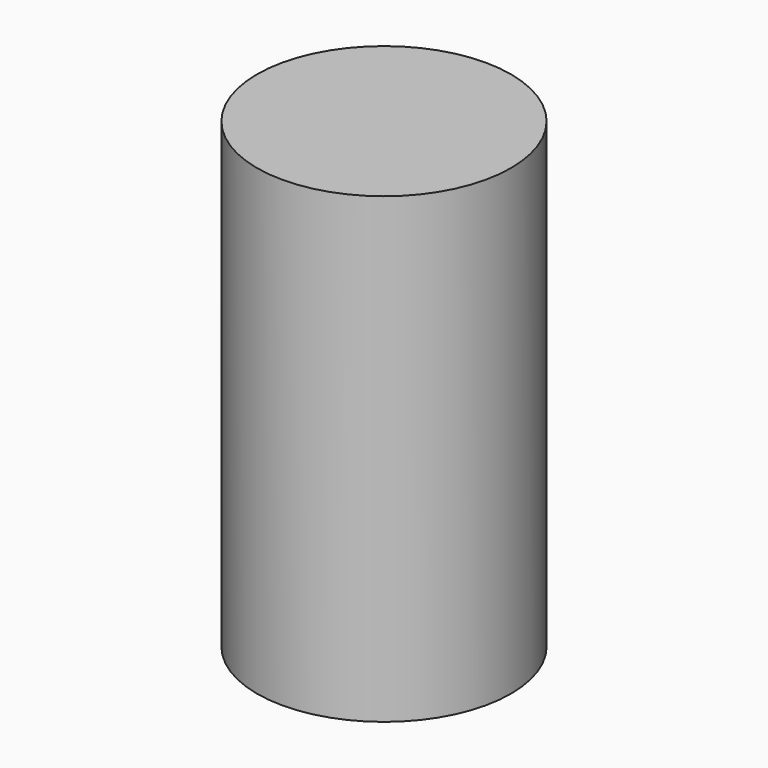
from build123d import *

# Parameters (mm, degrees)
F3_R        = 22.5
F4_DEPTH    = 80
F2_R        = 7.5
F0_R        = 17.5
F4_FACE_R   = 22.5
F4_FACE_R_2 = 7.5
F6_DEPTH    = 2


with BuildPart() as f4:
    # F3 (on Top) → F4 (new body)
    with BuildSketch(Plane.XY):
        Circle(F3_R)
    extrude(amount=F4_DEPTH)

    # F2 (on offset) → F5 section 0
    with BuildSketch(Plane.XY.offset(80)):
        Circle(F2_R)
    # F0 (on Top) → F5 section 1
    with BuildSketch(Plane.XY):
        Circle(F0_R)
    loft(mode=Mode.SUBTRACT)

    # F2 (on offset) + F4_face (on face) → F6 (join)
    with BuildSketch(Plane.XY.offset(80)):
        Circle(F2_R)
    with BuildSketch(Plane.XY.offset(80)):
        Circle(F4_FACE_R)
        Circle(F4_FACE_R_2, mode=Mode.SUBTRACT)
    extrude(amount=F6_DEPTH)


solid = f4.part
